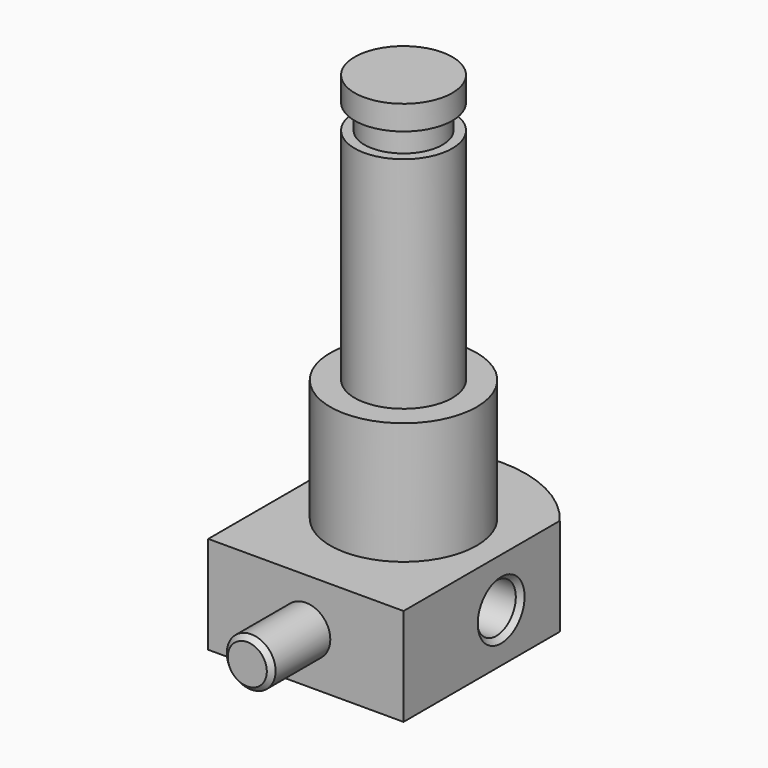
from build123d import *

# Parameters (mm, degrees)
F1_DEPTH  = 20
F2_R      = 5
F3_DEPTH  = 15
F4_R      = 15
F5_DEPTH  = 25
F6_R      = 10
F7_DEPTH  = 45
F8_R      = 8
F9_DEPTH  = 5
F10_R     = 10
F10_R_2   = 8
F11_DEPTH = 5
F12_R     = 5
F13_DEPTH = 45
F14_SIZE  = 1


with BuildPart() as f1:
    # F0 (on Top) → F1 (new body)
    with BuildSketch(Plane.XY):
        with BuildLine():
            Line((-40, 0), (0, 0))
            Line((0, 0), (0, 40))
            ThreePointArc((0, 40), (-20, 50), (-40, 40))
            Line((-40, 40), (-40, 0))
        make_face()
    extrude(amount=F1_DEPTH)

    # F2 (on face) → F3 (join)
    with BuildSketch(Plane.XZ):
        with Locations((-20, 10)):
            Circle(F2_R)
    extrude(amount=F3_DEPTH)

    # F4 (on face) → F5 (join)
    with BuildSketch(Plane.XY.offset(20)):
        with Locations((-20, 25)):
            Circle(F4_R)
    extrude(amount=F5_DEPTH)

    # F6 (on face) → F7 (join)
    with BuildSketch(Plane.XY.offset(45)):
        with Locations((-20, 25)):
            Circle(F6_R)
    extrude(amount=F7_DEPTH)

    # F8 (on face) → F9 (join)
    with BuildSketch(Plane.XY.offset(90)):
        with Locations((-20, 25)):
            Circle(F8_R)
    extrude(amount=F9_DEPTH)

    # F10 (on face) → F11 (join)
    with BuildSketch(Plane.XY.offset(95)):
        with Locations((-20, 25)):
            Circle(F10_R)
        with Locations((-20, 25)):
            Circle(F10_R_2, mode=Mode.SUBTRACT)
        with Locations((-20, 25)):
            Circle(F10_R_2)
    extrude(amount=F11_DEPTH)

    # F12 (on face) → F13 (cut)
    with BuildSketch(Plane.YZ):
        with Locations((25, 10)):
            Circle(F12_R)
    extrude(amount=-F13_DEPTH, mode=Mode.SUBTRACT)

    # F14
    f14_edges = [f1.edges().sort_by_distance(p)[0] for p in [
        (-25, -15, 10),
        (0, 20, 10),
        (-40, 20, 10),
    ]]
    chamfer(f14_edges, length=F14_SIZE)


solid = f1.part
